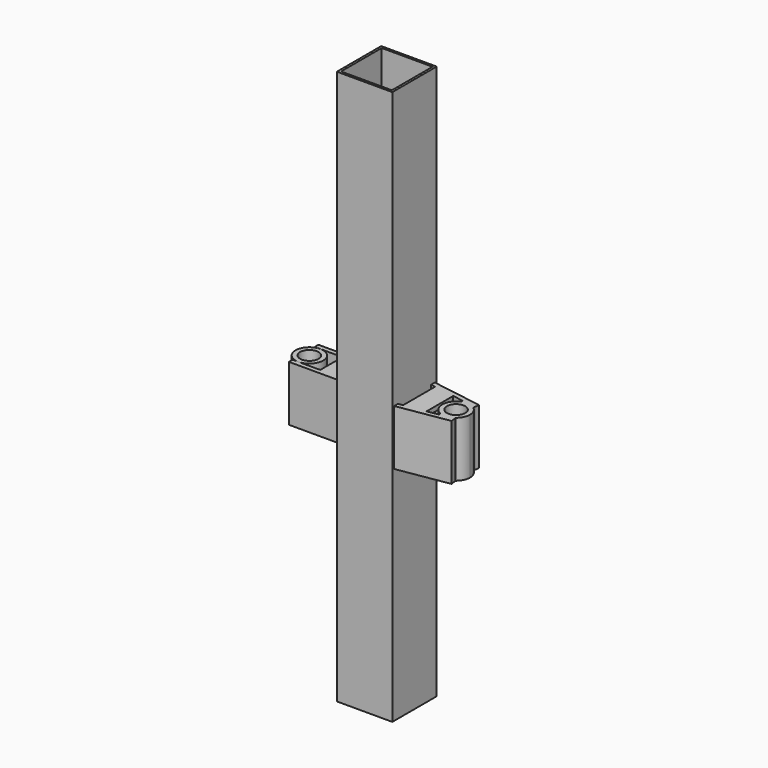
from build123d import *

# Parameters (mm, degrees)
F0_W      = 152.4
F0_H      = 152.4
F0_W_2    = 139.7
F0_H_2    = 139.7
F1_DEPTH  = 1524
F2_W      = 12.7
F2_H      = 152.4
F3_DEPTH  = 152.4
F4_R      = 25.4
F5_DEPTH  = 152.4
F6_W      = 63.5
F6_H      = 12.7
F7_DEPTH  = 76.2
F8_R      = 25.4
F9_DEPTH  = 152.4
F11_DEPTH = 12.7


with BuildPart() as f1:
    # F0 (on Top) → F1 (new body)
    with BuildSketch(Plane.XY):
        Rectangle(F0_W, F0_H)
        Rectangle(F0_W_2, F0_H_2, mode=Mode.SUBTRACT)
    extrude(amount=F1_DEPTH)

    # F2 (on face) → F3 (join)
    with BuildSketch(Plane(origin=(-76.2, 0, 0), x_dir=(0, -1, 0), z_dir=(-1, 0, 0))):
        with Locations((-44.45, 685.8)):
            Rectangle(F2_W, F2_H)
        with Locations((44.45, 685.8)):
            Rectangle(F2_W, F2_H)
    extrude(amount=F3_DEPTH)

    # F4 (on face) → F5 (join)
    with BuildSketch(Plane.XY.offset(762)):
        with BuildLine():
            ThreePointArc((-212.725, 38.1), (-239.6657683632, -26.9407683632), (-174.625, 0))
            ThreePointArc((-174.625, 0), (-185.7842316368, 26.9407683632), (-212.725, 38.1))
        make_face()
        with Locations((-212.725, 0)):
            Circle(F4_R, mode=Mode.SUBTRACT)
    extrude(amount=-F5_DEPTH)

    # F6 (on face) → F7 (join, through all)
    with BuildSketch(Plane.XZ.offset(-38.1)):
        with Locations((-120.65, 755.65)):
            Rectangle(F6_W, F6_H)
    extrude(amount=F7_DEPTH)

    # F8 (on face) → F9 (join)
    with BuildSketch(Plane.XY.offset(762)):
        Polygon((76.2, 69.9156891741), (76.2, 57.0511658246), (176.5006458104, 40.8542386466), (196.5738473074, 37.612742241), (214.1133879894, 34.7803909548), (216.1380038866, 47.3179716812), align=None)
        with BuildLine():
            Line((196.5738473074, 37.612742241), (176.5006458104, 40.8542386466))
            Line((176.5006458104, 40.8542386466), (175.5633656917, 35.0500635597))
            ThreePointArc((175.5633656917, 35.0500635597), (185.8870748043, 37.8197160373), (196.5738473074, 37.612742241))
        make_face()
        with BuildLine():
            ThreePointArc((196.5738473074, 37.612742241), (205.4302812688, 35.0527702363), (213.4125666633, 30.4405040842))
            Line((213.4125666633, 30.4405040842), (214.1133879894, 34.7803909548))
            Line((214.1133879894, 34.7803909548), (196.5738473074, 37.612742241))
        make_face()
        with BuildLine():
            ThreePointArc((213.4125666633, -30.4405040842), (224.5923656401, -17.009426947), (228.6, 0))
            ThreePointArc((228.6, 0), (224.5923656401, 17.009426947), (213.4125666633, 30.4405040842))
            ThreePointArc((213.4125666633, 30.4405040842), (205.4302812688, 35.0527702363), (196.5738473074, 37.612742241))
            ThreePointArc((196.5738473074, 37.612742241), (185.8870748043, 37.8197160373), (175.5633656917, 35.0500635597))
            ThreePointArc((175.5633656917, 35.0500635597), (152.4, 0), (175.5633656917, -35.0500635597))
            ThreePointArc((175.5633656917, -35.0500635597), (185.887074699, -37.8197160244), (196.5738470979, -37.6127422748))
            ThreePointArc((196.5738470979, -37.6127422748), (205.4302811711, -35.0527702778), (213.4125666633, -30.4405040842))
        make_face()
        with Locations((190.5, 0)):
            Circle(F8_R, mode=Mode.SUBTRACT)
        with BuildLine():
            Line((196.5738470979, -37.6127422748), (214.1133879894, -34.7803909548))
            Line((214.1133879894, -34.7803909548), (213.4125666633, -30.4405040842))
            ThreePointArc((213.4125666633, -30.4405040842), (205.4302811711, -35.0527702778), (196.5738470979, -37.6127422748))
        make_face()
        with BuildLine():
            Line((175.5633656917, -35.0500635597), (176.5006458104, -40.8542386466))
            Line((176.5006458104, -40.8542386466), (196.5738470979, -37.6127422748))
            ThreePointArc((196.5738470979, -37.6127422748), (185.887074699, -37.8197160244), (175.5633656917, -35.0500635597))
        make_face()
        Polygon((76.2, -57.0511658246), (76.2, -69.9156891741), (216.1380038866, -47.3179716812), (214.1133879894, -34.7803909548), (196.5738470979, -37.6127422748), (176.5006458104, -40.8542386466), align=None)
    extrude(amount=-F9_DEPTH)

    # F10 (on face) → F11 (join)
    with BuildSketch(Plane.XY.offset(762)):
        Polygon((88.9, 55.0003218495), (88.9, -55.0003218495), (146.05, -45.7715239614), (146.05, 45.7715239614), align=None)
    extrude(amount=-F11_DEPTH)


solid = f1.part
